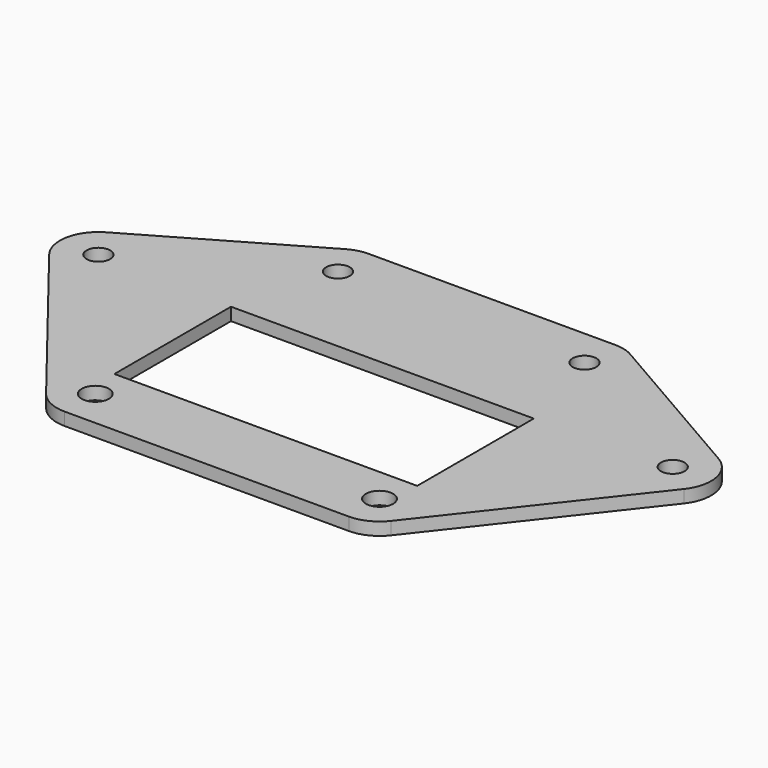
from build123d import *

# Parameters (mm, degrees)
F0_R     = 1.8288
F0_W     = 40.64
F0_H     = 19.558
F0_R_2   = 1.5875
F1_DEPTH = 1.70942


with BuildPart() as f1:
    # F0 (on Top) → F1 (new body)
    with BuildSketch(Plane.XY):
        with BuildLine():
            Line((16.542796, 28.167754), (-16.542796, 28.167754))
            ThreePointArc((-16.542796, 28.167754), (-17.87814, 27.991953), (-19.122483, 27.476529))
            Line((-19.122483, 27.476529), (-41.119528, 14.776529))
            ThreePointArc((-41.119528, 14.776529), (-43.60506, 11.289553), (-42.601364, 7.126685))
            Line((-42.601364, 7.126685), (-23.134602, -17.723194))
            ThreePointArc((-23.134602, -17.723194), (-21.331795, -19.18018), (-19.073079, -19.700875))
            Line((-19.073079, -19.700875), (19.073079, -19.700875))
            ThreePointArc((19.073079, -19.700875), (21.331795, -19.18018), (23.134602, -17.723194))
            Line((23.134602, -17.723194), (42.601364, 7.126685))
            ThreePointArc((42.601364, 7.126685), (43.60506, 11.289553), (41.119528, 14.776529))
            Line((41.119528, 14.776529), (19.122483, 27.476529))
            ThreePointArc((19.122483, 27.476529), (17.87814, 27.991953), (16.542796, 28.167754))
        make_face()
        with Locations((-19.073079, -14.5415)):
            Circle(F0_R, mode=Mode.SUBTRACT)
        Rectangle(F0_W, F0_H, mode=Mode.SUBTRACT)
        with Locations((19.073079, -14.5415)):
            Circle(F0_R, mode=Mode.SUBTRACT)
        with Locations((-38.539841, 10.308379)):
            Circle(F0_R_2, mode=Mode.SUBTRACT)
        with Locations((-16.542796, 23.008379)):
            Circle(F0_R_2, mode=Mode.SUBTRACT)
        with Locations((38.539841, 10.308379)):
            Circle(F0_R_2, mode=Mode.SUBTRACT)
        with Locations((16.542796, 23.008379)):
            Circle(F0_R_2, mode=Mode.SUBTRACT)
    extrude(amount=F1_DEPTH)


solid = f1.part
